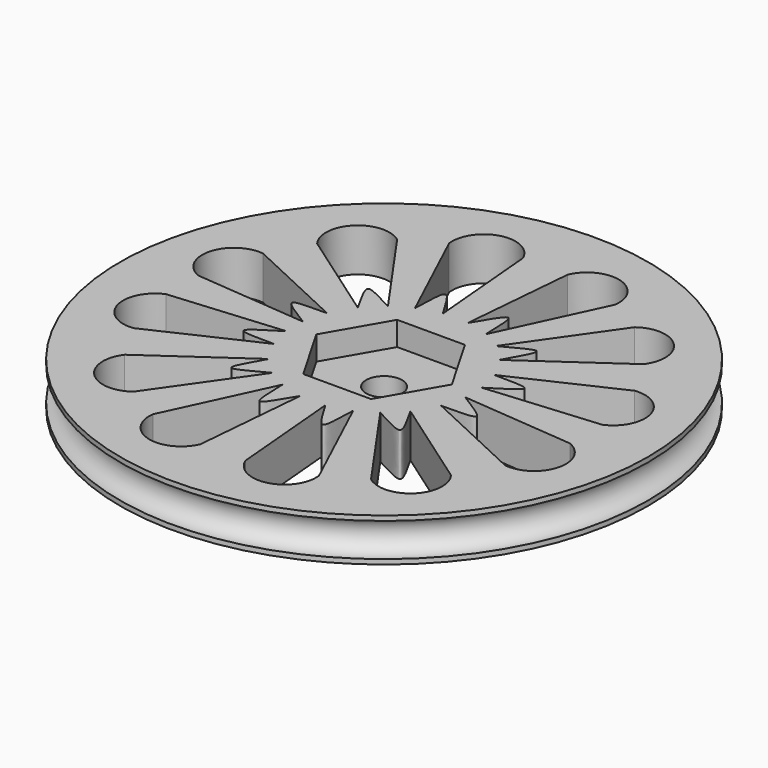
from build123d import *

# Parameters (mm, degrees)
F0_R     = 27.94
F1_DEPTH = 4.572
F5_DEPTH = 2.54
F7_D     = 3.81


with BuildPart() as f1:
    # F0 (on Top) → F1 (new body)
    with BuildSketch(Plane.XY):
        Circle(F0_R)
        with BuildLine():
            Line((-1.328203681, -9.4319404144), (-2.3688524781, -21.3266105935))
            ThreePointArc((-2.3688524781, -21.3266105935), (-6.3304787794, -23.2660997797), (-8.7974485702, -19.6095766626))
            Line((-8.7974485702, -19.6095766626), (-3.7385148069, -8.7606581967))
            add(Edge.make_bspline(
                [(-1.328203681, -9.4319404144), (-2.0478158848, -10.5329636855), (-3.8528256448, -14.1879980807), (-3.6315710261, -10.0960103597), (-3.7385148069, -8.7606581967)],
                knots=[0, 0, 0, 0, 0.4983014192, 1, 1, 1, 1], degree=3))
        make_face(mode=Mode.SUBTRACT)
        with BuildLine():
            Line((-8.8510553578, -3.519153883), (-19.672466301, -8.5652606779))
            ThreePointArc((-19.672466301, -8.5652606779), (-23.3201173108, -6.0960825431), (-21.3867590222, -2.1382644222))
            Line((-21.3867590222, -2.1382644222), (-9.4618531454, -1.0949703444))
            add(Edge.make_bspline(
                [(-8.8510553578, -3.519153883), (-10.1617797943, -3.4492064921), (-14.2173854227, -3.742830408), (-10.5667325444, -1.8566932992), (-9.4618531454, -1.0949703444)],
                knots=[0, 0, 0, 0, 0.4973740766, 1, 1, 1, 1], degree=3))
        make_face(mode=Mode.SUBTRACT)
        with BuildLine():
            Line((-5.7001591419, -7.6311080949), (-12.5661312554, -17.436732483))
            ThreePointArc((-12.5661312554, -17.436732483), (-16.967117535, -17.1327698627), (-17.2716171255, -12.7318207029))
            Line((-17.2716171255, -12.7318207029), (-7.4908549794, -5.8832573187))
            add(Edge.make_bspline(
                [(-5.7001591419, -7.6311080949), (-6.9114224761, -8.2060778351), (-10.3561428133, -10.4354310204), (-8.0845569587, -7.0557133669), (-7.4908549794, -5.8832573187)],
                knots=[0, 0, 0, 0, 0.5021110658, 1, 1, 1, 1], degree=3))
        make_face(mode=Mode.SUBTRACT)
        Polygon((3.4925, 6.0491874454), (6.985, 0), (3.4925, -6.0491874454), (-3.4925, -6.0491874454), (-6.985, 0), (-3.4925, 6.0491874454), align=None, mode=Mode.SUBTRACT)
        with BuildLine():
            ThreePointArc((8.7974485702, -19.6095766626), (6.3304787794, -23.2660997797), (2.3688524781, -21.3266105935))
            Line((2.3688524781, -21.3266105935), (1.328203681, -9.4319404144))
            add(Edge.make_bspline(
                [(1.328203681, -9.4319404144), (2.0478158848, -10.5329636855), (3.8528256448, -14.1879980807), (3.6315710261, -10.0960103597), (3.7385148069, -8.7606581967)],
                knots=[0, 0, 0, 0, 0.4983014192, 1, 1, 1, 1], degree=3))
            Line((3.7385148069, -8.7606581967), (8.7974485702, -19.6095766626))
        make_face(mode=Mode.SUBTRACT)
        with BuildLine():
            ThreePointArc((17.2716171255, -12.7318207029), (16.967117535, -17.1327698627), (12.5661312554, -17.436732483))
            Line((12.5661312554, -17.436732483), (5.7001591419, -7.6311080949))
            add(Edge.make_bspline(
                [(5.7001591419, -7.6311080949), (6.9114224761, -8.2060778351), (10.3561428133, -10.4354310204), (8.0845569587, -7.0557133669), (7.4908549794, -5.8832573187)],
                knots=[0, 0, 0, 0, 0.5021110658, 1, 1, 1, 1], degree=3))
            Line((7.4908549794, -5.8832573187), (17.2716171255, -12.7318207029))
        make_face(mode=Mode.SUBTRACT)
        with BuildLine():
            ThreePointArc((21.3867590222, -2.1382644222), (23.3201173108, -6.0960825431), (19.672466301, -8.5652606779))
            Line((19.672466301, -8.5652606779), (8.8510553578, -3.519153883))
            add(Edge.make_bspline(
                [(8.8510553578, -3.519153883), (10.1617797943, -3.4492064921), (14.2173854227, -3.742830408), (10.5667325444, -1.8566932992), (9.4618531454, -1.0949703444)],
                knots=[0, 0, 0, 0, 0.4973740766, 1, 1, 1, 1], degree=3))
            Line((9.4618531454, -1.0949703444), (21.3867590222, -2.1382644222))
        make_face(mode=Mode.SUBTRACT)
        with BuildLine():
            ThreePointArc((-21.3867590222, 2.1382644222), (-23.3201173108, 6.0960825431), (-19.672466301, 8.5652606779))
            Line((-19.672466301, 8.5652606779), (-8.8510553578, 3.519153883))
            add(Edge.make_bspline(
                [(-8.8510553578, 3.519153883), (-10.1617797943, 3.4492064921), (-14.2173854227, 3.742830408), (-10.5667325444, 1.8566932992), (-9.4618531454, 1.0949703444)],
                knots=[0, 0, 0, 0, 0.4973740766, 1, 1, 1, 1], degree=3))
            Line((-9.4618531454, 1.0949703444), (-21.3867590222, 2.1382644222))
        make_face(mode=Mode.SUBTRACT)
        with BuildLine():
            ThreePointArc((-17.2716171255, 12.7318207029), (-16.967117535, 17.1327698627), (-12.5661312554, 17.436732483))
            Line((-12.5661312554, 17.436732483), (-5.7001591419, 7.6311080949))
            add(Edge.make_bspline(
                [(-5.7001591419, 7.6311080949), (-6.9114224761, 8.2060778351), (-10.3561428133, 10.4354310204), (-8.0845569587, 7.0557133669), (-7.4908549794, 5.8832573187)],
                knots=[0, 0, 0, 0, 0.5021110658, 1, 1, 1, 1], degree=3))
            Line((-7.4908549794, 5.8832573187), (-17.2716171255, 12.7318207029))
        make_face(mode=Mode.SUBTRACT)
        with BuildLine():
            ThreePointArc((-8.7974485702, 19.6095766626), (-6.3304787794, 23.2660997797), (-2.3688524781, 21.3266105935))
            Line((-2.3688524781, 21.3266105935), (-1.328203681, 9.4319404144))
            add(Edge.make_bspline(
                [(-1.328203681, 9.4319404144), (-2.0478158848, 10.5329636855), (-3.8528256448, 14.1879980807), (-3.6315710261, 10.0960103597), (-3.7385148069, 8.7606581967)],
                knots=[0, 0, 0, 0, 0.4983014192, 1, 1, 1, 1], degree=3))
            Line((-3.7385148069, 8.7606581967), (-8.7974485702, 19.6095766626))
        make_face(mode=Mode.SUBTRACT)
        with BuildLine():
            Line((5.7001591419, 7.6311080949), (12.5661312554, 17.436732483))
            ThreePointArc((12.5661312554, 17.436732483), (16.967117535, 17.1327698627), (17.2716171255, 12.7318207029))
            Line((17.2716171255, 12.7318207029), (7.4908549794, 5.8832573187))
            add(Edge.make_bspline(
                [(5.7001591419, 7.6311080949), (6.9114224761, 8.2060778351), (10.3561428133, 10.4354310204), (8.0845569587, 7.0557133669), (7.4908549794, 5.8832573187)],
                knots=[0, 0, 0, 0, 0.5021110658, 1, 1, 1, 1], degree=3))
        make_face(mode=Mode.SUBTRACT)
        with BuildLine():
            Line((8.8510553578, 3.519153883), (19.672466301, 8.5652606779))
            ThreePointArc((19.672466301, 8.5652606779), (23.3201173108, 6.0960825431), (21.3867590222, 2.1382644222))
            Line((21.3867590222, 2.1382644222), (9.4618531454, 1.0949703444))
            add(Edge.make_bspline(
                [(8.8510553578, 3.519153883), (10.1617797943, 3.4492064921), (14.2173854227, 3.742830408), (10.5667325444, 1.8566932992), (9.4618531454, 1.0949703444)],
                knots=[0, 0, 0, 0, 0.4973740766, 1, 1, 1, 1], degree=3))
        make_face(mode=Mode.SUBTRACT)
        with BuildLine():
            Line((1.328203681, 9.4319404144), (2.3688524781, 21.3266105935))
            ThreePointArc((2.3688524781, 21.3266105935), (6.3304787794, 23.2660997797), (8.7974485702, 19.6095766626))
            Line((8.7974485702, 19.6095766626), (3.7385148069, 8.7606581967))
            add(Edge.make_bspline(
                [(1.328203681, 9.4319404144), (2.0478158848, 10.5329636855), (3.8528256448, 14.1879980807), (3.6315710261, 10.0960103597), (3.7385148069, 8.7606581967)],
                knots=[0, 0, 0, 0, 0.4983014192, 1, 1, 1, 1], degree=3))
        make_face(mode=Mode.SUBTRACT)
        Circle(F0_R)
        with BuildLine():
            Line((-1.328203681, -9.4319404144), (-2.3688524781, -21.3266105935))
            ThreePointArc((-2.3688524781, -21.3266105935), (-6.3304787794, -23.2660997797), (-8.7974485702, -19.6095766626))
            Line((-8.7974485702, -19.6095766626), (-3.7385148069, -8.7606581967))
            add(Edge.make_bspline(
                [(-1.328203681, -9.4319404144), (-2.0478158848, -10.5329636855), (-3.8528256448, -14.1879980807), (-3.6315710261, -10.0960103597), (-3.7385148069, -8.7606581967)],
                knots=[0, 0, 0, 0, 0.4983014192, 1, 1, 1, 1], degree=3))
        make_face(mode=Mode.SUBTRACT)
        with BuildLine():
            Line((-8.8510553578, -3.519153883), (-19.672466301, -8.5652606779))
            ThreePointArc((-19.672466301, -8.5652606779), (-23.3201173108, -6.0960825431), (-21.3867590222, -2.1382644222))
            Line((-21.3867590222, -2.1382644222), (-9.4618531454, -1.0949703444))
            add(Edge.make_bspline(
                [(-8.8510553578, -3.519153883), (-10.1617797943, -3.4492064921), (-14.2173854227, -3.742830408), (-10.5667325444, -1.8566932992), (-9.4618531454, -1.0949703444)],
                knots=[0, 0, 0, 0, 0.4973740766, 1, 1, 1, 1], degree=3))
        make_face(mode=Mode.SUBTRACT)
        with BuildLine():
            Line((-5.7001591419, -7.6311080949), (-12.5661312554, -17.436732483))
            ThreePointArc((-12.5661312554, -17.436732483), (-16.967117535, -17.1327698627), (-17.2716171255, -12.7318207029))
            Line((-17.2716171255, -12.7318207029), (-7.4908549794, -5.8832573187))
            add(Edge.make_bspline(
                [(-5.7001591419, -7.6311080949), (-6.9114224761, -8.2060778351), (-10.3561428133, -10.4354310204), (-8.0845569587, -7.0557133669), (-7.4908549794, -5.8832573187)],
                knots=[0, 0, 0, 0, 0.5021110658, 1, 1, 1, 1], degree=3))
        make_face(mode=Mode.SUBTRACT)
        Polygon((3.4925, 6.0491874454), (6.985, 0), (3.4925, -6.0491874454), (-3.4925, -6.0491874454), (-6.985, 0), (-3.4925, 6.0491874454), align=None, mode=Mode.SUBTRACT)
        with BuildLine():
            ThreePointArc((8.7974485702, -19.6095766626), (6.3304787794, -23.2660997797), (2.3688524781, -21.3266105935))
            Line((2.3688524781, -21.3266105935), (1.328203681, -9.4319404144))
            add(Edge.make_bspline(
                [(1.328203681, -9.4319404144), (2.0478158848, -10.5329636855), (3.8528256448, -14.1879980807), (3.6315710261, -10.0960103597), (3.7385148069, -8.7606581967)],
                knots=[0, 0, 0, 0, 0.4983014192, 1, 1, 1, 1], degree=3))
            Line((3.7385148069, -8.7606581967), (8.7974485702, -19.6095766626))
        make_face(mode=Mode.SUBTRACT)
        with BuildLine():
            ThreePointArc((17.2716171255, -12.7318207029), (16.967117535, -17.1327698627), (12.5661312554, -17.436732483))
            Line((12.5661312554, -17.436732483), (5.7001591419, -7.6311080949))
            add(Edge.make_bspline(
                [(5.7001591419, -7.6311080949), (6.9114224761, -8.2060778351), (10.3561428133, -10.4354310204), (8.0845569587, -7.0557133669), (7.4908549794, -5.8832573187)],
                knots=[0, 0, 0, 0, 0.5021110658, 1, 1, 1, 1], degree=3))
            Line((7.4908549794, -5.8832573187), (17.2716171255, -12.7318207029))
        make_face(mode=Mode.SUBTRACT)
        with BuildLine():
            ThreePointArc((21.3867590222, -2.1382644222), (23.3201173108, -6.0960825431), (19.672466301, -8.5652606779))
            Line((19.672466301, -8.5652606779), (8.8510553578, -3.519153883))
            add(Edge.make_bspline(
                [(8.8510553578, -3.519153883), (10.1617797943, -3.4492064921), (14.2173854227, -3.742830408), (10.5667325444, -1.8566932992), (9.4618531454, -1.0949703444)],
                knots=[0, 0, 0, 0, 0.4973740766, 1, 1, 1, 1], degree=3))
            Line((9.4618531454, -1.0949703444), (21.3867590222, -2.1382644222))
        make_face(mode=Mode.SUBTRACT)
        with BuildLine():
            ThreePointArc((-21.3867590222, 2.1382644222), (-23.3201173108, 6.0960825431), (-19.672466301, 8.5652606779))
            Line((-19.672466301, 8.5652606779), (-8.8510553578, 3.519153883))
            add(Edge.make_bspline(
                [(-8.8510553578, 3.519153883), (-10.1617797943, 3.4492064921), (-14.2173854227, 3.742830408), (-10.5667325444, 1.8566932992), (-9.4618531454, 1.0949703444)],
                knots=[0, 0, 0, 0, 0.4973740766, 1, 1, 1, 1], degree=3))
            Line((-9.4618531454, 1.0949703444), (-21.3867590222, 2.1382644222))
        make_face(mode=Mode.SUBTRACT)
        with BuildLine():
            ThreePointArc((-17.2716171255, 12.7318207029), (-16.967117535, 17.1327698627), (-12.5661312554, 17.436732483))
            Line((-12.5661312554, 17.436732483), (-5.7001591419, 7.6311080949))
            add(Edge.make_bspline(
                [(-5.7001591419, 7.6311080949), (-6.9114224761, 8.2060778351), (-10.3561428133, 10.4354310204), (-8.0845569587, 7.0557133669), (-7.4908549794, 5.8832573187)],
                knots=[0, 0, 0, 0, 0.5021110658, 1, 1, 1, 1], degree=3))
            Line((-7.4908549794, 5.8832573187), (-17.2716171255, 12.7318207029))
        make_face(mode=Mode.SUBTRACT)
        with BuildLine():
            ThreePointArc((-8.7974485702, 19.6095766626), (-6.3304787794, 23.2660997797), (-2.3688524781, 21.3266105935))
            Line((-2.3688524781, 21.3266105935), (-1.328203681, 9.4319404144))
            add(Edge.make_bspline(
                [(-1.328203681, 9.4319404144), (-2.0478158848, 10.5329636855), (-3.8528256448, 14.1879980807), (-3.6315710261, 10.0960103597), (-3.7385148069, 8.7606581967)],
                knots=[0, 0, 0, 0, 0.4983014192, 1, 1, 1, 1], degree=3))
            Line((-3.7385148069, 8.7606581967), (-8.7974485702, 19.6095766626))
        make_face(mode=Mode.SUBTRACT)
        with BuildLine():
            Line((5.7001591419, 7.6311080949), (12.5661312554, 17.436732483))
            ThreePointArc((12.5661312554, 17.436732483), (16.967117535, 17.1327698627), (17.2716171255, 12.7318207029))
            Line((17.2716171255, 12.7318207029), (7.4908549794, 5.8832573187))
            add(Edge.make_bspline(
                [(5.7001591419, 7.6311080949), (6.9114224761, 8.2060778351), (10.3561428133, 10.4354310204), (8.0845569587, 7.0557133669), (7.4908549794, 5.8832573187)],
                knots=[0, 0, 0, 0, 0.5021110658, 1, 1, 1, 1], degree=3))
        make_face(mode=Mode.SUBTRACT)
        with BuildLine():
            Line((8.8510553578, 3.519153883), (19.672466301, 8.5652606779))
            ThreePointArc((19.672466301, 8.5652606779), (23.3201173108, 6.0960825431), (21.3867590222, 2.1382644222))
            Line((21.3867590222, 2.1382644222), (9.4618531454, 1.0949703444))
            add(Edge.make_bspline(
                [(8.8510553578, 3.519153883), (10.1617797943, 3.4492064921), (14.2173854227, 3.742830408), (10.5667325444, 1.8566932992), (9.4618531454, 1.0949703444)],
                knots=[0, 0, 0, 0, 0.4973740766, 1, 1, 1, 1], degree=3))
        make_face(mode=Mode.SUBTRACT)
        with BuildLine():
            Line((1.328203681, 9.4319404144), (2.3688524781, 21.3266105935))
            ThreePointArc((2.3688524781, 21.3266105935), (6.3304787794, 23.2660997797), (8.7974485702, 19.6095766626))
            Line((8.7974485702, 19.6095766626), (3.7385148069, 8.7606581967))
            add(Edge.make_bspline(
                [(1.328203681, 9.4319404144), (2.0478158848, 10.5329636855), (3.8528256448, 14.1879980807), (3.6315710261, 10.0960103597), (3.7385148069, 8.7606581967)],
                knots=[0, 0, 0, 0, 0.4983014192, 1, 1, 1, 1], degree=3))
        make_face(mode=Mode.SUBTRACT)
        Circle(F0_R)
        with BuildLine():
            Line((-1.328203681, -9.4319404144), (-2.3688524781, -21.3266105935))
            ThreePointArc((-2.3688524781, -21.3266105935), (-6.3304787794, -23.2660997797), (-8.7974485702, -19.6095766626))
            Line((-8.7974485702, -19.6095766626), (-3.7385148069, -8.7606581967))
            add(Edge.make_bspline(
                [(-1.328203681, -9.4319404144), (-2.0478158848, -10.5329636855), (-3.8528256448, -14.1879980807), (-3.6315710261, -10.0960103597), (-3.7385148069, -8.7606581967)],
                knots=[0, 0, 0, 0, 0.4983014192, 1, 1, 1, 1], degree=3))
        make_face(mode=Mode.SUBTRACT)
        with BuildLine():
            Line((-8.8510553578, -3.519153883), (-19.672466301, -8.5652606779))
            ThreePointArc((-19.672466301, -8.5652606779), (-23.3201173108, -6.0960825431), (-21.3867590222, -2.1382644222))
            Line((-21.3867590222, -2.1382644222), (-9.4618531454, -1.0949703444))
            add(Edge.make_bspline(
                [(-8.8510553578, -3.519153883), (-10.1617797943, -3.4492064921), (-14.2173854227, -3.742830408), (-10.5667325444, -1.8566932992), (-9.4618531454, -1.0949703444)],
                knots=[0, 0, 0, 0, 0.4973740766, 1, 1, 1, 1], degree=3))
        make_face(mode=Mode.SUBTRACT)
        with BuildLine():
            Line((-5.7001591419, -7.6311080949), (-12.5661312554, -17.436732483))
            ThreePointArc((-12.5661312554, -17.436732483), (-16.967117535, -17.1327698627), (-17.2716171255, -12.7318207029))
            Line((-17.2716171255, -12.7318207029), (-7.4908549794, -5.8832573187))
            add(Edge.make_bspline(
                [(-5.7001591419, -7.6311080949), (-6.9114224761, -8.2060778351), (-10.3561428133, -10.4354310204), (-8.0845569587, -7.0557133669), (-7.4908549794, -5.8832573187)],
                knots=[0, 0, 0, 0, 0.5021110658, 1, 1, 1, 1], degree=3))
        make_face(mode=Mode.SUBTRACT)
        Polygon((3.4925, 6.0491874454), (6.985, 0), (3.4925, -6.0491874454), (-3.4925, -6.0491874454), (-6.985, 0), (-3.4925, 6.0491874454), align=None, mode=Mode.SUBTRACT)
        with BuildLine():
            ThreePointArc((8.7974485702, -19.6095766626), (6.3304787794, -23.2660997797), (2.3688524781, -21.3266105935))
            Line((2.3688524781, -21.3266105935), (1.328203681, -9.4319404144))
            add(Edge.make_bspline(
                [(1.328203681, -9.4319404144), (2.0478158848, -10.5329636855), (3.8528256448, -14.1879980807), (3.6315710261, -10.0960103597), (3.7385148069, -8.7606581967)],
                knots=[0, 0, 0, 0, 0.4983014192, 1, 1, 1, 1], degree=3))
            Line((3.7385148069, -8.7606581967), (8.7974485702, -19.6095766626))
        make_face(mode=Mode.SUBTRACT)
        with BuildLine():
            ThreePointArc((17.2716171255, -12.7318207029), (16.967117535, -17.1327698627), (12.5661312554, -17.436732483))
            Line((12.5661312554, -17.436732483), (5.7001591419, -7.6311080949))
            add(Edge.make_bspline(
                [(5.7001591419, -7.6311080949), (6.9114224761, -8.2060778351), (10.3561428133, -10.4354310204), (8.0845569587, -7.0557133669), (7.4908549794, -5.8832573187)],
                knots=[0, 0, 0, 0, 0.5021110658, 1, 1, 1, 1], degree=3))
            Line((7.4908549794, -5.8832573187), (17.2716171255, -12.7318207029))
        make_face(mode=Mode.SUBTRACT)
        with BuildLine():
            ThreePointArc((21.3867590222, -2.1382644222), (23.3201173108, -6.0960825431), (19.672466301, -8.5652606779))
            Line((19.672466301, -8.5652606779), (8.8510553578, -3.519153883))
            add(Edge.make_bspline(
                [(8.8510553578, -3.519153883), (10.1617797943, -3.4492064921), (14.2173854227, -3.742830408), (10.5667325444, -1.8566932992), (9.4618531454, -1.0949703444)],
                knots=[0, 0, 0, 0, 0.4973740766, 1, 1, 1, 1], degree=3))
            Line((9.4618531454, -1.0949703444), (21.3867590222, -2.1382644222))
        make_face(mode=Mode.SUBTRACT)
        with BuildLine():
            ThreePointArc((-21.3867590222, 2.1382644222), (-23.3201173108, 6.0960825431), (-19.672466301, 8.5652606779))
            Line((-19.672466301, 8.5652606779), (-8.8510553578, 3.519153883))
            add(Edge.make_bspline(
                [(-8.8510553578, 3.519153883), (-10.1617797943, 3.4492064921), (-14.2173854227, 3.742830408), (-10.5667325444, 1.8566932992), (-9.4618531454, 1.0949703444)],
                knots=[0, 0, 0, 0, 0.4973740766, 1, 1, 1, 1], degree=3))
            Line((-9.4618531454, 1.0949703444), (-21.3867590222, 2.1382644222))
        make_face(mode=Mode.SUBTRACT)
        with BuildLine():
            ThreePointArc((-17.2716171255, 12.7318207029), (-16.967117535, 17.1327698627), (-12.5661312554, 17.436732483))
            Line((-12.5661312554, 17.436732483), (-5.7001591419, 7.6311080949))
            add(Edge.make_bspline(
                [(-5.7001591419, 7.6311080949), (-6.9114224761, 8.2060778351), (-10.3561428133, 10.4354310204), (-8.0845569587, 7.0557133669), (-7.4908549794, 5.8832573187)],
                knots=[0, 0, 0, 0, 0.5021110658, 1, 1, 1, 1], degree=3))
            Line((-7.4908549794, 5.8832573187), (-17.2716171255, 12.7318207029))
        make_face(mode=Mode.SUBTRACT)
        with BuildLine():
            ThreePointArc((-8.7974485702, 19.6095766626), (-6.3304787794, 23.2660997797), (-2.3688524781, 21.3266105935))
            Line((-2.3688524781, 21.3266105935), (-1.328203681, 9.4319404144))
            add(Edge.make_bspline(
                [(-1.328203681, 9.4319404144), (-2.0478158848, 10.5329636855), (-3.8528256448, 14.1879980807), (-3.6315710261, 10.0960103597), (-3.7385148069, 8.7606581967)],
                knots=[0, 0, 0, 0, 0.4983014192, 1, 1, 1, 1], degree=3))
            Line((-3.7385148069, 8.7606581967), (-8.7974485702, 19.6095766626))
        make_face(mode=Mode.SUBTRACT)
        with BuildLine():
            Line((5.7001591419, 7.6311080949), (12.5661312554, 17.436732483))
            ThreePointArc((12.5661312554, 17.436732483), (16.967117535, 17.1327698627), (17.2716171255, 12.7318207029))
            Line((17.2716171255, 12.7318207029), (7.4908549794, 5.8832573187))
            add(Edge.make_bspline(
                [(5.7001591419, 7.6311080949), (6.9114224761, 8.2060778351), (10.3561428133, 10.4354310204), (8.0845569587, 7.0557133669), (7.4908549794, 5.8832573187)],
                knots=[0, 0, 0, 0, 0.5021110658, 1, 1, 1, 1], degree=3))
        make_face(mode=Mode.SUBTRACT)
        with BuildLine():
            Line((8.8510553578, 3.519153883), (19.672466301, 8.5652606779))
            ThreePointArc((19.672466301, 8.5652606779), (23.3201173108, 6.0960825431), (21.3867590222, 2.1382644222))
            Line((21.3867590222, 2.1382644222), (9.4618531454, 1.0949703444))
            add(Edge.make_bspline(
                [(8.8510553578, 3.519153883), (10.1617797943, 3.4492064921), (14.2173854227, 3.742830408), (10.5667325444, 1.8566932992), (9.4618531454, 1.0949703444)],
                knots=[0, 0, 0, 0, 0.4973740766, 1, 1, 1, 1], degree=3))
        make_face(mode=Mode.SUBTRACT)
        with BuildLine():
            Line((1.328203681, 9.4319404144), (2.3688524781, 21.3266105935))
            ThreePointArc((2.3688524781, 21.3266105935), (6.3304787794, 23.2660997797), (8.7974485702, 19.6095766626))
            Line((8.7974485702, 19.6095766626), (3.7385148069, 8.7606581967))
            add(Edge.make_bspline(
                [(1.328203681, 9.4319404144), (2.0478158848, 10.5329636855), (3.8528256448, 14.1879980807), (3.6315710261, 10.0960103597), (3.7385148069, 8.7606581967)],
                knots=[0, 0, 0, 0, 0.4983014192, 1, 1, 1, 1], degree=3))
        make_face(mode=Mode.SUBTRACT)
        Circle(F0_R)
        with BuildLine():
            Line((-1.328203681, -9.4319404144), (-2.3688524781, -21.3266105935))
            ThreePointArc((-2.3688524781, -21.3266105935), (-6.3304787794, -23.2660997797), (-8.7974485702, -19.6095766626))
            Line((-8.7974485702, -19.6095766626), (-3.7385148069, -8.7606581967))
            add(Edge.make_bspline(
                [(-1.328203681, -9.4319404144), (-2.0478158848, -10.5329636855), (-3.8528256448, -14.1879980807), (-3.6315710261, -10.0960103597), (-3.7385148069, -8.7606581967)],
                knots=[0, 0, 0, 0, 0.4983014192, 1, 1, 1, 1], degree=3))
        make_face(mode=Mode.SUBTRACT)
        with BuildLine():
            Line((-8.8510553578, -3.519153883), (-19.672466301, -8.5652606779))
            ThreePointArc((-19.672466301, -8.5652606779), (-23.3201173108, -6.0960825431), (-21.3867590222, -2.1382644222))
            Line((-21.3867590222, -2.1382644222), (-9.4618531454, -1.0949703444))
            add(Edge.make_bspline(
                [(-8.8510553578, -3.519153883), (-10.1617797943, -3.4492064921), (-14.2173854227, -3.742830408), (-10.5667325444, -1.8566932992), (-9.4618531454, -1.0949703444)],
                knots=[0, 0, 0, 0, 0.4973740766, 1, 1, 1, 1], degree=3))
        make_face(mode=Mode.SUBTRACT)
        with BuildLine():
            Line((-5.7001591419, -7.6311080949), (-12.5661312554, -17.436732483))
            ThreePointArc((-12.5661312554, -17.436732483), (-16.967117535, -17.1327698627), (-17.2716171255, -12.7318207029))
            Line((-17.2716171255, -12.7318207029), (-7.4908549794, -5.8832573187))
            add(Edge.make_bspline(
                [(-5.7001591419, -7.6311080949), (-6.9114224761, -8.2060778351), (-10.3561428133, -10.4354310204), (-8.0845569587, -7.0557133669), (-7.4908549794, -5.8832573187)],
                knots=[0, 0, 0, 0, 0.5021110658, 1, 1, 1, 1], degree=3))
        make_face(mode=Mode.SUBTRACT)
        Polygon((3.4925, 6.0491874454), (6.985, 0), (3.4925, -6.0491874454), (-3.4925, -6.0491874454), (-6.985, 0), (-3.4925, 6.0491874454), align=None, mode=Mode.SUBTRACT)
        with BuildLine():
            ThreePointArc((8.7974485702, -19.6095766626), (6.3304787794, -23.2660997797), (2.3688524781, -21.3266105935))
            Line((2.3688524781, -21.3266105935), (1.328203681, -9.4319404144))
            add(Edge.make_bspline(
                [(1.328203681, -9.4319404144), (2.0478158848, -10.5329636855), (3.8528256448, -14.1879980807), (3.6315710261, -10.0960103597), (3.7385148069, -8.7606581967)],
                knots=[0, 0, 0, 0, 0.4983014192, 1, 1, 1, 1], degree=3))
            Line((3.7385148069, -8.7606581967), (8.7974485702, -19.6095766626))
        make_face(mode=Mode.SUBTRACT)
        with BuildLine():
            ThreePointArc((17.2716171255, -12.7318207029), (16.967117535, -17.1327698627), (12.5661312554, -17.436732483))
            Line((12.5661312554, -17.436732483), (5.7001591419, -7.6311080949))
            add(Edge.make_bspline(
                [(5.7001591419, -7.6311080949), (6.9114224761, -8.2060778351), (10.3561428133, -10.4354310204), (8.0845569587, -7.0557133669), (7.4908549794, -5.8832573187)],
                knots=[0, 0, 0, 0, 0.5021110658, 1, 1, 1, 1], degree=3))
            Line((7.4908549794, -5.8832573187), (17.2716171255, -12.7318207029))
        make_face(mode=Mode.SUBTRACT)
        with BuildLine():
            ThreePointArc((21.3867590222, -2.1382644222), (23.3201173108, -6.0960825431), (19.672466301, -8.5652606779))
            Line((19.672466301, -8.5652606779), (8.8510553578, -3.519153883))
            add(Edge.make_bspline(
                [(8.8510553578, -3.519153883), (10.1617797943, -3.4492064921), (14.2173854227, -3.742830408), (10.5667325444, -1.8566932992), (9.4618531454, -1.0949703444)],
                knots=[0, 0, 0, 0, 0.4973740766, 1, 1, 1, 1], degree=3))
            Line((9.4618531454, -1.0949703444), (21.3867590222, -2.1382644222))
        make_face(mode=Mode.SUBTRACT)
        with BuildLine():
            ThreePointArc((-21.3867590222, 2.1382644222), (-23.3201173108, 6.0960825431), (-19.672466301, 8.5652606779))
            Line((-19.672466301, 8.5652606779), (-8.8510553578, 3.519153883))
            add(Edge.make_bspline(
                [(-8.8510553578, 3.519153883), (-10.1617797943, 3.4492064921), (-14.2173854227, 3.742830408), (-10.5667325444, 1.8566932992), (-9.4618531454, 1.0949703444)],
                knots=[0, 0, 0, 0, 0.4973740766, 1, 1, 1, 1], degree=3))
            Line((-9.4618531454, 1.0949703444), (-21.3867590222, 2.1382644222))
        make_face(mode=Mode.SUBTRACT)
        with BuildLine():
            ThreePointArc((-17.2716171255, 12.7318207029), (-16.967117535, 17.1327698627), (-12.5661312554, 17.436732483))
            Line((-12.5661312554, 17.436732483), (-5.7001591419, 7.6311080949))
            add(Edge.make_bspline(
                [(-5.7001591419, 7.6311080949), (-6.9114224761, 8.2060778351), (-10.3561428133, 10.4354310204), (-8.0845569587, 7.0557133669), (-7.4908549794, 5.8832573187)],
                knots=[0, 0, 0, 0, 0.5021110658, 1, 1, 1, 1], degree=3))
            Line((-7.4908549794, 5.8832573187), (-17.2716171255, 12.7318207029))
        make_face(mode=Mode.SUBTRACT)
        with BuildLine():
            ThreePointArc((-8.7974485702, 19.6095766626), (-6.3304787794, 23.2660997797), (-2.3688524781, 21.3266105935))
            Line((-2.3688524781, 21.3266105935), (-1.328203681, 9.4319404144))
            add(Edge.make_bspline(
                [(-1.328203681, 9.4319404144), (-2.0478158848, 10.5329636855), (-3.8528256448, 14.1879980807), (-3.6315710261, 10.0960103597), (-3.7385148069, 8.7606581967)],
                knots=[0, 0, 0, 0, 0.4983014192, 1, 1, 1, 1], degree=3))
            Line((-3.7385148069, 8.7606581967), (-8.7974485702, 19.6095766626))
        make_face(mode=Mode.SUBTRACT)
        with BuildLine():
            Line((5.7001591419, 7.6311080949), (12.5661312554, 17.436732483))
            ThreePointArc((12.5661312554, 17.436732483), (16.967117535, 17.1327698627), (17.2716171255, 12.7318207029))
            Line((17.2716171255, 12.7318207029), (7.4908549794, 5.8832573187))
            add(Edge.make_bspline(
                [(5.7001591419, 7.6311080949), (6.9114224761, 8.2060778351), (10.3561428133, 10.4354310204), (8.0845569587, 7.0557133669), (7.4908549794, 5.8832573187)],
                knots=[0, 0, 0, 0, 0.5021110658, 1, 1, 1, 1], degree=3))
        make_face(mode=Mode.SUBTRACT)
        with BuildLine():
            Line((8.8510553578, 3.519153883), (19.672466301, 8.5652606779))
            ThreePointArc((19.672466301, 8.5652606779), (23.3201173108, 6.0960825431), (21.3867590222, 2.1382644222))
            Line((21.3867590222, 2.1382644222), (9.4618531454, 1.0949703444))
            add(Edge.make_bspline(
                [(8.8510553578, 3.519153883), (10.1617797943, 3.4492064921), (14.2173854227, 3.742830408), (10.5667325444, 1.8566932992), (9.4618531454, 1.0949703444)],
                knots=[0, 0, 0, 0, 0.4973740766, 1, 1, 1, 1], degree=3))
        make_face(mode=Mode.SUBTRACT)
        with BuildLine():
            Line((1.328203681, 9.4319404144), (2.3688524781, 21.3266105935))
            ThreePointArc((2.3688524781, 21.3266105935), (6.3304787794, 23.2660997797), (8.7974485702, 19.6095766626))
            Line((8.7974485702, 19.6095766626), (3.7385148069, 8.7606581967))
            add(Edge.make_bspline(
                [(1.328203681, 9.4319404144), (2.0478158848, 10.5329636855), (3.8528256448, 14.1879980807), (3.6315710261, 10.0960103597), (3.7385148069, 8.7606581967)],
                knots=[0, 0, 0, 0, 0.4983014192, 1, 1, 1, 1], degree=3))
        make_face(mode=Mode.SUBTRACT)
        Circle(F0_R)
        with BuildLine():
            Line((-1.328203681, -9.4319404144), (-2.3688524781, -21.3266105935))
            ThreePointArc((-2.3688524781, -21.3266105935), (-6.3304787794, -23.2660997797), (-8.7974485702, -19.6095766626))
            Line((-8.7974485702, -19.6095766626), (-3.7385148069, -8.7606581967))
            add(Edge.make_bspline(
                [(-1.328203681, -9.4319404144), (-2.0478158848, -10.5329636855), (-3.8528256448, -14.1879980807), (-3.6315710261, -10.0960103597), (-3.7385148069, -8.7606581967)],
                knots=[0, 0, 0, 0, 0.4983014192, 1, 1, 1, 1], degree=3))
        make_face(mode=Mode.SUBTRACT)
        with BuildLine():
            Line((-8.8510553578, -3.519153883), (-19.672466301, -8.5652606779))
            ThreePointArc((-19.672466301, -8.5652606779), (-23.3201173108, -6.0960825431), (-21.3867590222, -2.1382644222))
            Line((-21.3867590222, -2.1382644222), (-9.4618531454, -1.0949703444))
            add(Edge.make_bspline(
                [(-8.8510553578, -3.519153883), (-10.1617797943, -3.4492064921), (-14.2173854227, -3.742830408), (-10.5667325444, -1.8566932992), (-9.4618531454, -1.0949703444)],
                knots=[0, 0, 0, 0, 0.4973740766, 1, 1, 1, 1], degree=3))
        make_face(mode=Mode.SUBTRACT)
        with BuildLine():
            Line((-5.7001591419, -7.6311080949), (-12.5661312554, -17.436732483))
            ThreePointArc((-12.5661312554, -17.436732483), (-16.967117535, -17.1327698627), (-17.2716171255, -12.7318207029))
            Line((-17.2716171255, -12.7318207029), (-7.4908549794, -5.8832573187))
            add(Edge.make_bspline(
                [(-5.7001591419, -7.6311080949), (-6.9114224761, -8.2060778351), (-10.3561428133, -10.4354310204), (-8.0845569587, -7.0557133669), (-7.4908549794, -5.8832573187)],
                knots=[0, 0, 0, 0, 0.5021110658, 1, 1, 1, 1], degree=3))
        make_face(mode=Mode.SUBTRACT)
        Polygon((3.4925, 6.0491874454), (6.985, 0), (3.4925, -6.0491874454), (-3.4925, -6.0491874454), (-6.985, 0), (-3.4925, 6.0491874454), align=None, mode=Mode.SUBTRACT)
        with BuildLine():
            ThreePointArc((8.7974485702, -19.6095766626), (6.3304787794, -23.2660997797), (2.3688524781, -21.3266105935))
            Line((2.3688524781, -21.3266105935), (1.328203681, -9.4319404144))
            add(Edge.make_bspline(
                [(1.328203681, -9.4319404144), (2.0478158848, -10.5329636855), (3.8528256448, -14.1879980807), (3.6315710261, -10.0960103597), (3.7385148069, -8.7606581967)],
                knots=[0, 0, 0, 0, 0.4983014192, 1, 1, 1, 1], degree=3))
            Line((3.7385148069, -8.7606581967), (8.7974485702, -19.6095766626))
        make_face(mode=Mode.SUBTRACT)
        with BuildLine():
            ThreePointArc((17.2716171255, -12.7318207029), (16.967117535, -17.1327698627), (12.5661312554, -17.436732483))
            Line((12.5661312554, -17.436732483), (5.7001591419, -7.6311080949))
            add(Edge.make_bspline(
                [(5.7001591419, -7.6311080949), (6.9114224761, -8.2060778351), (10.3561428133, -10.4354310204), (8.0845569587, -7.0557133669), (7.4908549794, -5.8832573187)],
                knots=[0, 0, 0, 0, 0.5021110658, 1, 1, 1, 1], degree=3))
            Line((7.4908549794, -5.8832573187), (17.2716171255, -12.7318207029))
        make_face(mode=Mode.SUBTRACT)
        with BuildLine():
            ThreePointArc((21.3867590222, -2.1382644222), (23.3201173108, -6.0960825431), (19.672466301, -8.5652606779))
            Line((19.672466301, -8.5652606779), (8.8510553578, -3.519153883))
            add(Edge.make_bspline(
                [(8.8510553578, -3.519153883), (10.1617797943, -3.4492064921), (14.2173854227, -3.742830408), (10.5667325444, -1.8566932992), (9.4618531454, -1.0949703444)],
                knots=[0, 0, 0, 0, 0.4973740766, 1, 1, 1, 1], degree=3))
            Line((9.4618531454, -1.0949703444), (21.3867590222, -2.1382644222))
        make_face(mode=Mode.SUBTRACT)
        with BuildLine():
            ThreePointArc((-21.3867590222, 2.1382644222), (-23.3201173108, 6.0960825431), (-19.672466301, 8.5652606779))
            Line((-19.672466301, 8.5652606779), (-8.8510553578, 3.519153883))
            add(Edge.make_bspline(
                [(-8.8510553578, 3.519153883), (-10.1617797943, 3.4492064921), (-14.2173854227, 3.742830408), (-10.5667325444, 1.8566932992), (-9.4618531454, 1.0949703444)],
                knots=[0, 0, 0, 0, 0.4973740766, 1, 1, 1, 1], degree=3))
            Line((-9.4618531454, 1.0949703444), (-21.3867590222, 2.1382644222))
        make_face(mode=Mode.SUBTRACT)
        with BuildLine():
            ThreePointArc((-17.2716171255, 12.7318207029), (-16.967117535, 17.1327698627), (-12.5661312554, 17.436732483))
            Line((-12.5661312554, 17.436732483), (-5.7001591419, 7.6311080949))
            add(Edge.make_bspline(
                [(-5.7001591419, 7.6311080949), (-6.9114224761, 8.2060778351), (-10.3561428133, 10.4354310204), (-8.0845569587, 7.0557133669), (-7.4908549794, 5.8832573187)],
                knots=[0, 0, 0, 0, 0.5021110658, 1, 1, 1, 1], degree=3))
            Line((-7.4908549794, 5.8832573187), (-17.2716171255, 12.7318207029))
        make_face(mode=Mode.SUBTRACT)
        with BuildLine():
            ThreePointArc((-8.7974485702, 19.6095766626), (-6.3304787794, 23.2660997797), (-2.3688524781, 21.3266105935))
            Line((-2.3688524781, 21.3266105935), (-1.328203681, 9.4319404144))
            add(Edge.make_bspline(
                [(-1.328203681, 9.4319404144), (-2.0478158848, 10.5329636855), (-3.8528256448, 14.1879980807), (-3.6315710261, 10.0960103597), (-3.7385148069, 8.7606581967)],
                knots=[0, 0, 0, 0, 0.4983014192, 1, 1, 1, 1], degree=3))
            Line((-3.7385148069, 8.7606581967), (-8.7974485702, 19.6095766626))
        make_face(mode=Mode.SUBTRACT)
        with BuildLine():
            Line((5.7001591419, 7.6311080949), (12.5661312554, 17.436732483))
            ThreePointArc((12.5661312554, 17.436732483), (16.967117535, 17.1327698627), (17.2716171255, 12.7318207029))
            Line((17.2716171255, 12.7318207029), (7.4908549794, 5.8832573187))
            add(Edge.make_bspline(
                [(5.7001591419, 7.6311080949), (6.9114224761, 8.2060778351), (10.3561428133, 10.4354310204), (8.0845569587, 7.0557133669), (7.4908549794, 5.8832573187)],
                knots=[0, 0, 0, 0, 0.5021110658, 1, 1, 1, 1], degree=3))
        make_face(mode=Mode.SUBTRACT)
        with BuildLine():
            Line((8.8510553578, 3.519153883), (19.672466301, 8.5652606779))
            ThreePointArc((19.672466301, 8.5652606779), (23.3201173108, 6.0960825431), (21.3867590222, 2.1382644222))
            Line((21.3867590222, 2.1382644222), (9.4618531454, 1.0949703444))
            add(Edge.make_bspline(
                [(8.8510553578, 3.519153883), (10.1617797943, 3.4492064921), (14.2173854227, 3.742830408), (10.5667325444, 1.8566932992), (9.4618531454, 1.0949703444)],
                knots=[0, 0, 0, 0, 0.4973740766, 1, 1, 1, 1], degree=3))
        make_face(mode=Mode.SUBTRACT)
        with BuildLine():
            Line((1.328203681, 9.4319404144), (2.3688524781, 21.3266105935))
            ThreePointArc((2.3688524781, 21.3266105935), (6.3304787794, 23.2660997797), (8.7974485702, 19.6095766626))
            Line((8.7974485702, 19.6095766626), (3.7385148069, 8.7606581967))
            add(Edge.make_bspline(
                [(1.328203681, 9.4319404144), (2.0478158848, 10.5329636855), (3.8528256448, 14.1879980807), (3.6315710261, 10.0960103597), (3.7385148069, 8.7606581967)],
                knots=[0, 0, 0, 0, 0.4983014192, 1, 1, 1, 1], degree=3))
        make_face(mode=Mode.SUBTRACT)
        Circle(F0_R)
        with BuildLine():
            Line((-1.328203681, -9.4319404144), (-2.3688524781, -21.3266105935))
            ThreePointArc((-2.3688524781, -21.3266105935), (-6.3304787794, -23.2660997797), (-8.7974485702, -19.6095766626))
            Line((-8.7974485702, -19.6095766626), (-3.7385148069, -8.7606581967))
            add(Edge.make_bspline(
                [(-1.328203681, -9.4319404144), (-2.0478158848, -10.5329636855), (-3.8528256448, -14.1879980807), (-3.6315710261, -10.0960103597), (-3.7385148069, -8.7606581967)],
                knots=[0, 0, 0, 0, 0.4983014192, 1, 1, 1, 1], degree=3))
        make_face(mode=Mode.SUBTRACT)
        with BuildLine():
            Line((-8.8510553578, -3.519153883), (-19.672466301, -8.5652606779))
            ThreePointArc((-19.672466301, -8.5652606779), (-23.3201173108, -6.0960825431), (-21.3867590222, -2.1382644222))
            Line((-21.3867590222, -2.1382644222), (-9.4618531454, -1.0949703444))
            add(Edge.make_bspline(
                [(-8.8510553578, -3.519153883), (-10.1617797943, -3.4492064921), (-14.2173854227, -3.742830408), (-10.5667325444, -1.8566932992), (-9.4618531454, -1.0949703444)],
                knots=[0, 0, 0, 0, 0.4973740766, 1, 1, 1, 1], degree=3))
        make_face(mode=Mode.SUBTRACT)
        with BuildLine():
            Line((-5.7001591419, -7.6311080949), (-12.5661312554, -17.436732483))
            ThreePointArc((-12.5661312554, -17.436732483), (-16.967117535, -17.1327698627), (-17.2716171255, -12.7318207029))
            Line((-17.2716171255, -12.7318207029), (-7.4908549794, -5.8832573187))
            add(Edge.make_bspline(
                [(-5.7001591419, -7.6311080949), (-6.9114224761, -8.2060778351), (-10.3561428133, -10.4354310204), (-8.0845569587, -7.0557133669), (-7.4908549794, -5.8832573187)],
                knots=[0, 0, 0, 0, 0.5021110658, 1, 1, 1, 1], degree=3))
        make_face(mode=Mode.SUBTRACT)
        Polygon((3.4925, 6.0491874454), (6.985, 0), (3.4925, -6.0491874454), (-3.4925, -6.0491874454), (-6.985, 0), (-3.4925, 6.0491874454), align=None, mode=Mode.SUBTRACT)
        with BuildLine():
            ThreePointArc((8.7974485702, -19.6095766626), (6.3304787794, -23.2660997797), (2.3688524781, -21.3266105935))
            Line((2.3688524781, -21.3266105935), (1.328203681, -9.4319404144))
            add(Edge.make_bspline(
                [(1.328203681, -9.4319404144), (2.0478158848, -10.5329636855), (3.8528256448, -14.1879980807), (3.6315710261, -10.0960103597), (3.7385148069, -8.7606581967)],
                knots=[0, 0, 0, 0, 0.4983014192, 1, 1, 1, 1], degree=3))
            Line((3.7385148069, -8.7606581967), (8.7974485702, -19.6095766626))
        make_face(mode=Mode.SUBTRACT)
        with BuildLine():
            ThreePointArc((17.2716171255, -12.7318207029), (16.967117535, -17.1327698627), (12.5661312554, -17.436732483))
            Line((12.5661312554, -17.436732483), (5.7001591419, -7.6311080949))
            add(Edge.make_bspline(
                [(5.7001591419, -7.6311080949), (6.9114224761, -8.2060778351), (10.3561428133, -10.4354310204), (8.0845569587, -7.0557133669), (7.4908549794, -5.8832573187)],
                knots=[0, 0, 0, 0, 0.5021110658, 1, 1, 1, 1], degree=3))
            Line((7.4908549794, -5.8832573187), (17.2716171255, -12.7318207029))
        make_face(mode=Mode.SUBTRACT)
        with BuildLine():
            ThreePointArc((21.3867590222, -2.1382644222), (23.3201173108, -6.0960825431), (19.672466301, -8.5652606779))
            Line((19.672466301, -8.5652606779), (8.8510553578, -3.519153883))
            add(Edge.make_bspline(
                [(8.8510553578, -3.519153883), (10.1617797943, -3.4492064921), (14.2173854227, -3.742830408), (10.5667325444, -1.8566932992), (9.4618531454, -1.0949703444)],
                knots=[0, 0, 0, 0, 0.4973740766, 1, 1, 1, 1], degree=3))
            Line((9.4618531454, -1.0949703444), (21.3867590222, -2.1382644222))
        make_face(mode=Mode.SUBTRACT)
        with BuildLine():
            ThreePointArc((-21.3867590222, 2.1382644222), (-23.3201173108, 6.0960825431), (-19.672466301, 8.5652606779))
            Line((-19.672466301, 8.5652606779), (-8.8510553578, 3.519153883))
            add(Edge.make_bspline(
                [(-8.8510553578, 3.519153883), (-10.1617797943, 3.4492064921), (-14.2173854227, 3.742830408), (-10.5667325444, 1.8566932992), (-9.4618531454, 1.0949703444)],
                knots=[0, 0, 0, 0, 0.4973740766, 1, 1, 1, 1], degree=3))
            Line((-9.4618531454, 1.0949703444), (-21.3867590222, 2.1382644222))
        make_face(mode=Mode.SUBTRACT)
        with BuildLine():
            ThreePointArc((-17.2716171255, 12.7318207029), (-16.967117535, 17.1327698627), (-12.5661312554, 17.436732483))
            Line((-12.5661312554, 17.436732483), (-5.7001591419, 7.6311080949))
            add(Edge.make_bspline(
                [(-5.7001591419, 7.6311080949), (-6.9114224761, 8.2060778351), (-10.3561428133, 10.4354310204), (-8.0845569587, 7.0557133669), (-7.4908549794, 5.8832573187)],
                knots=[0, 0, 0, 0, 0.5021110658, 1, 1, 1, 1], degree=3))
            Line((-7.4908549794, 5.8832573187), (-17.2716171255, 12.7318207029))
        make_face(mode=Mode.SUBTRACT)
        with BuildLine():
            ThreePointArc((-8.7974485702, 19.6095766626), (-6.3304787794, 23.2660997797), (-2.3688524781, 21.3266105935))
            Line((-2.3688524781, 21.3266105935), (-1.328203681, 9.4319404144))
            add(Edge.make_bspline(
                [(-1.328203681, 9.4319404144), (-2.0478158848, 10.5329636855), (-3.8528256448, 14.1879980807), (-3.6315710261, 10.0960103597), (-3.7385148069, 8.7606581967)],
                knots=[0, 0, 0, 0, 0.4983014192, 1, 1, 1, 1], degree=3))
            Line((-3.7385148069, 8.7606581967), (-8.7974485702, 19.6095766626))
        make_face(mode=Mode.SUBTRACT)
        with BuildLine():
            Line((5.7001591419, 7.6311080949), (12.5661312554, 17.436732483))
            ThreePointArc((12.5661312554, 17.436732483), (16.967117535, 17.1327698627), (17.2716171255, 12.7318207029))
            Line((17.2716171255, 12.7318207029), (7.4908549794, 5.8832573187))
            add(Edge.make_bspline(
                [(5.7001591419, 7.6311080949), (6.9114224761, 8.2060778351), (10.3561428133, 10.4354310204), (8.0845569587, 7.0557133669), (7.4908549794, 5.8832573187)],
                knots=[0, 0, 0, 0, 0.5021110658, 1, 1, 1, 1], degree=3))
        make_face(mode=Mode.SUBTRACT)
        with BuildLine():
            Line((8.8510553578, 3.519153883), (19.672466301, 8.5652606779))
            ThreePointArc((19.672466301, 8.5652606779), (23.3201173108, 6.0960825431), (21.3867590222, 2.1382644222))
            Line((21.3867590222, 2.1382644222), (9.4618531454, 1.0949703444))
            add(Edge.make_bspline(
                [(8.8510553578, 3.519153883), (10.1617797943, 3.4492064921), (14.2173854227, 3.742830408), (10.5667325444, 1.8566932992), (9.4618531454, 1.0949703444)],
                knots=[0, 0, 0, 0, 0.4973740766, 1, 1, 1, 1], degree=3))
        make_face(mode=Mode.SUBTRACT)
        with BuildLine():
            Line((1.328203681, 9.4319404144), (2.3688524781, 21.3266105935))
            ThreePointArc((2.3688524781, 21.3266105935), (6.3304787794, 23.2660997797), (8.7974485702, 19.6095766626))
            Line((8.7974485702, 19.6095766626), (3.7385148069, 8.7606581967))
            add(Edge.make_bspline(
                [(1.328203681, 9.4319404144), (2.0478158848, 10.5329636855), (3.8528256448, 14.1879980807), (3.6315710261, 10.0960103597), (3.7385148069, 8.7606581967)],
                knots=[0, 0, 0, 0, 0.4983014192, 1, 1, 1, 1], degree=3))
        make_face(mode=Mode.SUBTRACT)
        Circle(F0_R)
        with BuildLine():
            Line((-1.328203681, -9.4319404144), (-2.3688524781, -21.3266105935))
            ThreePointArc((-2.3688524781, -21.3266105935), (-6.3304787794, -23.2660997797), (-8.7974485702, -19.6095766626))
            Line((-8.7974485702, -19.6095766626), (-3.7385148069, -8.7606581967))
            add(Edge.make_bspline(
                [(-1.328203681, -9.4319404144), (-2.0478158848, -10.5329636855), (-3.8528256448, -14.1879980807), (-3.6315710261, -10.0960103597), (-3.7385148069, -8.7606581967)],
                knots=[0, 0, 0, 0, 0.4983014192, 1, 1, 1, 1], degree=3))
        make_face(mode=Mode.SUBTRACT)
        with BuildLine():
            Line((-8.8510553578, -3.519153883), (-19.672466301, -8.5652606779))
            ThreePointArc((-19.672466301, -8.5652606779), (-23.3201173108, -6.0960825431), (-21.3867590222, -2.1382644222))
            Line((-21.3867590222, -2.1382644222), (-9.4618531454, -1.0949703444))
            add(Edge.make_bspline(
                [(-8.8510553578, -3.519153883), (-10.1617797943, -3.4492064921), (-14.2173854227, -3.742830408), (-10.5667325444, -1.8566932992), (-9.4618531454, -1.0949703444)],
                knots=[0, 0, 0, 0, 0.4973740766, 1, 1, 1, 1], degree=3))
        make_face(mode=Mode.SUBTRACT)
        with BuildLine():
            Line((-5.7001591419, -7.6311080949), (-12.5661312554, -17.436732483))
            ThreePointArc((-12.5661312554, -17.436732483), (-16.967117535, -17.1327698627), (-17.2716171255, -12.7318207029))
            Line((-17.2716171255, -12.7318207029), (-7.4908549794, -5.8832573187))
            add(Edge.make_bspline(
                [(-5.7001591419, -7.6311080949), (-6.9114224761, -8.2060778351), (-10.3561428133, -10.4354310204), (-8.0845569587, -7.0557133669), (-7.4908549794, -5.8832573187)],
                knots=[0, 0, 0, 0, 0.5021110658, 1, 1, 1, 1], degree=3))
        make_face(mode=Mode.SUBTRACT)
        Polygon((3.4925, 6.0491874454), (6.985, 0), (3.4925, -6.0491874454), (-3.4925, -6.0491874454), (-6.985, 0), (-3.4925, 6.0491874454), align=None, mode=Mode.SUBTRACT)
        with BuildLine():
            ThreePointArc((8.7974485702, -19.6095766626), (6.3304787794, -23.2660997797), (2.3688524781, -21.3266105935))
            Line((2.3688524781, -21.3266105935), (1.328203681, -9.4319404144))
            add(Edge.make_bspline(
                [(1.328203681, -9.4319404144), (2.0478158848, -10.5329636855), (3.8528256448, -14.1879980807), (3.6315710261, -10.0960103597), (3.7385148069, -8.7606581967)],
                knots=[0, 0, 0, 0, 0.4983014192, 1, 1, 1, 1], degree=3))
            Line((3.7385148069, -8.7606581967), (8.7974485702, -19.6095766626))
        make_face(mode=Mode.SUBTRACT)
        with BuildLine():
            ThreePointArc((17.2716171255, -12.7318207029), (16.967117535, -17.1327698627), (12.5661312554, -17.436732483))
            Line((12.5661312554, -17.436732483), (5.7001591419, -7.6311080949))
            add(Edge.make_bspline(
                [(5.7001591419, -7.6311080949), (6.9114224761, -8.2060778351), (10.3561428133, -10.4354310204), (8.0845569587, -7.0557133669), (7.4908549794, -5.8832573187)],
                knots=[0, 0, 0, 0, 0.5021110658, 1, 1, 1, 1], degree=3))
            Line((7.4908549794, -5.8832573187), (17.2716171255, -12.7318207029))
        make_face(mode=Mode.SUBTRACT)
        with BuildLine():
            ThreePointArc((21.3867590222, -2.1382644222), (23.3201173108, -6.0960825431), (19.672466301, -8.5652606779))
            Line((19.672466301, -8.5652606779), (8.8510553578, -3.519153883))
            add(Edge.make_bspline(
                [(8.8510553578, -3.519153883), (10.1617797943, -3.4492064921), (14.2173854227, -3.742830408), (10.5667325444, -1.8566932992), (9.4618531454, -1.0949703444)],
                knots=[0, 0, 0, 0, 0.4973740766, 1, 1, 1, 1], degree=3))
            Line((9.4618531454, -1.0949703444), (21.3867590222, -2.1382644222))
        make_face(mode=Mode.SUBTRACT)
        with BuildLine():
            ThreePointArc((-21.3867590222, 2.1382644222), (-23.3201173108, 6.0960825431), (-19.672466301, 8.5652606779))
            Line((-19.672466301, 8.5652606779), (-8.8510553578, 3.519153883))
            add(Edge.make_bspline(
                [(-8.8510553578, 3.519153883), (-10.1617797943, 3.4492064921), (-14.2173854227, 3.742830408), (-10.5667325444, 1.8566932992), (-9.4618531454, 1.0949703444)],
                knots=[0, 0, 0, 0, 0.4973740766, 1, 1, 1, 1], degree=3))
            Line((-9.4618531454, 1.0949703444), (-21.3867590222, 2.1382644222))
        make_face(mode=Mode.SUBTRACT)
        with BuildLine():
            ThreePointArc((-17.2716171255, 12.7318207029), (-16.967117535, 17.1327698627), (-12.5661312554, 17.436732483))
            Line((-12.5661312554, 17.436732483), (-5.7001591419, 7.6311080949))
            add(Edge.make_bspline(
                [(-5.7001591419, 7.6311080949), (-6.9114224761, 8.2060778351), (-10.3561428133, 10.4354310204), (-8.0845569587, 7.0557133669), (-7.4908549794, 5.8832573187)],
                knots=[0, 0, 0, 0, 0.5021110658, 1, 1, 1, 1], degree=3))
            Line((-7.4908549794, 5.8832573187), (-17.2716171255, 12.7318207029))
        make_face(mode=Mode.SUBTRACT)
        with BuildLine():
            ThreePointArc((-8.7974485702, 19.6095766626), (-6.3304787794, 23.2660997797), (-2.3688524781, 21.3266105935))
            Line((-2.3688524781, 21.3266105935), (-1.328203681, 9.4319404144))
            add(Edge.make_bspline(
                [(-1.328203681, 9.4319404144), (-2.0478158848, 10.5329636855), (-3.8528256448, 14.1879980807), (-3.6315710261, 10.0960103597), (-3.7385148069, 8.7606581967)],
                knots=[0, 0, 0, 0, 0.4983014192, 1, 1, 1, 1], degree=3))
            Line((-3.7385148069, 8.7606581967), (-8.7974485702, 19.6095766626))
        make_face(mode=Mode.SUBTRACT)
        with BuildLine():
            Line((5.7001591419, 7.6311080949), (12.5661312554, 17.436732483))
            ThreePointArc((12.5661312554, 17.436732483), (16.967117535, 17.1327698627), (17.2716171255, 12.7318207029))
            Line((17.2716171255, 12.7318207029), (7.4908549794, 5.8832573187))
            add(Edge.make_bspline(
                [(5.7001591419, 7.6311080949), (6.9114224761, 8.2060778351), (10.3561428133, 10.4354310204), (8.0845569587, 7.0557133669), (7.4908549794, 5.8832573187)],
                knots=[0, 0, 0, 0, 0.5021110658, 1, 1, 1, 1], degree=3))
        make_face(mode=Mode.SUBTRACT)
        with BuildLine():
            Line((8.8510553578, 3.519153883), (19.672466301, 8.5652606779))
            ThreePointArc((19.672466301, 8.5652606779), (23.3201173108, 6.0960825431), (21.3867590222, 2.1382644222))
            Line((21.3867590222, 2.1382644222), (9.4618531454, 1.0949703444))
            add(Edge.make_bspline(
                [(8.8510553578, 3.519153883), (10.1617797943, 3.4492064921), (14.2173854227, 3.742830408), (10.5667325444, 1.8566932992), (9.4618531454, 1.0949703444)],
                knots=[0, 0, 0, 0, 0.4973740766, 1, 1, 1, 1], degree=3))
        make_face(mode=Mode.SUBTRACT)
        with BuildLine():
            Line((1.328203681, 9.4319404144), (2.3688524781, 21.3266105935))
            ThreePointArc((2.3688524781, 21.3266105935), (6.3304787794, 23.2660997797), (8.7974485702, 19.6095766626))
            Line((8.7974485702, 19.6095766626), (3.7385148069, 8.7606581967))
            add(Edge.make_bspline(
                [(1.328203681, 9.4319404144), (2.0478158848, 10.5329636855), (3.8528256448, 14.1879980807), (3.6315710261, 10.0960103597), (3.7385148069, 8.7606581967)],
                knots=[0, 0, 0, 0, 0.4983014192, 1, 1, 1, 1], degree=3))
        make_face(mode=Mode.SUBTRACT)
        Circle(F0_R)
        with BuildLine():
            Line((-1.328203681, -9.4319404144), (-2.3688524781, -21.3266105935))
            ThreePointArc((-2.3688524781, -21.3266105935), (-6.3304787794, -23.2660997797), (-8.7974485702, -19.6095766626))
            Line((-8.7974485702, -19.6095766626), (-3.7385148069, -8.7606581967))
            add(Edge.make_bspline(
                [(-1.328203681, -9.4319404144), (-2.0478158848, -10.5329636855), (-3.8528256448, -14.1879980807), (-3.6315710261, -10.0960103597), (-3.7385148069, -8.7606581967)],
                knots=[0, 0, 0, 0, 0.4983014192, 1, 1, 1, 1], degree=3))
        make_face(mode=Mode.SUBTRACT)
        with BuildLine():
            Line((-8.8510553578, -3.519153883), (-19.672466301, -8.5652606779))
            ThreePointArc((-19.672466301, -8.5652606779), (-23.3201173108, -6.0960825431), (-21.3867590222, -2.1382644222))
            Line((-21.3867590222, -2.1382644222), (-9.4618531454, -1.0949703444))
            add(Edge.make_bspline(
                [(-8.8510553578, -3.519153883), (-10.1617797943, -3.4492064921), (-14.2173854227, -3.742830408), (-10.5667325444, -1.8566932992), (-9.4618531454, -1.0949703444)],
                knots=[0, 0, 0, 0, 0.4973740766, 1, 1, 1, 1], degree=3))
        make_face(mode=Mode.SUBTRACT)
        with BuildLine():
            Line((-5.7001591419, -7.6311080949), (-12.5661312554, -17.436732483))
            ThreePointArc((-12.5661312554, -17.436732483), (-16.967117535, -17.1327698627), (-17.2716171255, -12.7318207029))
            Line((-17.2716171255, -12.7318207029), (-7.4908549794, -5.8832573187))
            add(Edge.make_bspline(
                [(-5.7001591419, -7.6311080949), (-6.9114224761, -8.2060778351), (-10.3561428133, -10.4354310204), (-8.0845569587, -7.0557133669), (-7.4908549794, -5.8832573187)],
                knots=[0, 0, 0, 0, 0.5021110658, 1, 1, 1, 1], degree=3))
        make_face(mode=Mode.SUBTRACT)
        Polygon((3.4925, 6.0491874454), (6.985, 0), (3.4925, -6.0491874454), (-3.4925, -6.0491874454), (-6.985, 0), (-3.4925, 6.0491874454), align=None, mode=Mode.SUBTRACT)
        with BuildLine():
            ThreePointArc((8.7974485702, -19.6095766626), (6.3304787794, -23.2660997797), (2.3688524781, -21.3266105935))
            Line((2.3688524781, -21.3266105935), (1.328203681, -9.4319404144))
            add(Edge.make_bspline(
                [(1.328203681, -9.4319404144), (2.0478158848, -10.5329636855), (3.8528256448, -14.1879980807), (3.6315710261, -10.0960103597), (3.7385148069, -8.7606581967)],
                knots=[0, 0, 0, 0, 0.4983014192, 1, 1, 1, 1], degree=3))
            Line((3.7385148069, -8.7606581967), (8.7974485702, -19.6095766626))
        make_face(mode=Mode.SUBTRACT)
        with BuildLine():
            ThreePointArc((17.2716171255, -12.7318207029), (16.967117535, -17.1327698627), (12.5661312554, -17.436732483))
            Line((12.5661312554, -17.436732483), (5.7001591419, -7.6311080949))
            add(Edge.make_bspline(
                [(5.7001591419, -7.6311080949), (6.9114224761, -8.2060778351), (10.3561428133, -10.4354310204), (8.0845569587, -7.0557133669), (7.4908549794, -5.8832573187)],
                knots=[0, 0, 0, 0, 0.5021110658, 1, 1, 1, 1], degree=3))
            Line((7.4908549794, -5.8832573187), (17.2716171255, -12.7318207029))
        make_face(mode=Mode.SUBTRACT)
        with BuildLine():
            ThreePointArc((21.3867590222, -2.1382644222), (23.3201173108, -6.0960825431), (19.672466301, -8.5652606779))
            Line((19.672466301, -8.5652606779), (8.8510553578, -3.519153883))
            add(Edge.make_bspline(
                [(8.8510553578, -3.519153883), (10.1617797943, -3.4492064921), (14.2173854227, -3.742830408), (10.5667325444, -1.8566932992), (9.4618531454, -1.0949703444)],
                knots=[0, 0, 0, 0, 0.4973740766, 1, 1, 1, 1], degree=3))
            Line((9.4618531454, -1.0949703444), (21.3867590222, -2.1382644222))
        make_face(mode=Mode.SUBTRACT)
        with BuildLine():
            ThreePointArc((-21.3867590222, 2.1382644222), (-23.3201173108, 6.0960825431), (-19.672466301, 8.5652606779))
            Line((-19.672466301, 8.5652606779), (-8.8510553578, 3.519153883))
            add(Edge.make_bspline(
                [(-8.8510553578, 3.519153883), (-10.1617797943, 3.4492064921), (-14.2173854227, 3.742830408), (-10.5667325444, 1.8566932992), (-9.4618531454, 1.0949703444)],
                knots=[0, 0, 0, 0, 0.4973740766, 1, 1, 1, 1], degree=3))
            Line((-9.4618531454, 1.0949703444), (-21.3867590222, 2.1382644222))
        make_face(mode=Mode.SUBTRACT)
        with BuildLine():
            ThreePointArc((-17.2716171255, 12.7318207029), (-16.967117535, 17.1327698627), (-12.5661312554, 17.436732483))
            Line((-12.5661312554, 17.436732483), (-5.7001591419, 7.6311080949))
            add(Edge.make_bspline(
                [(-5.7001591419, 7.6311080949), (-6.9114224761, 8.2060778351), (-10.3561428133, 10.4354310204), (-8.0845569587, 7.0557133669), (-7.4908549794, 5.8832573187)],
                knots=[0, 0, 0, 0, 0.5021110658, 1, 1, 1, 1], degree=3))
            Line((-7.4908549794, 5.8832573187), (-17.2716171255, 12.7318207029))
        make_face(mode=Mode.SUBTRACT)
        with BuildLine():
            ThreePointArc((-8.7974485702, 19.6095766626), (-6.3304787794, 23.2660997797), (-2.3688524781, 21.3266105935))
            Line((-2.3688524781, 21.3266105935), (-1.328203681, 9.4319404144))
            add(Edge.make_bspline(
                [(-1.328203681, 9.4319404144), (-2.0478158848, 10.5329636855), (-3.8528256448, 14.1879980807), (-3.6315710261, 10.0960103597), (-3.7385148069, 8.7606581967)],
                knots=[0, 0, 0, 0, 0.4983014192, 1, 1, 1, 1], degree=3))
            Line((-3.7385148069, 8.7606581967), (-8.7974485702, 19.6095766626))
        make_face(mode=Mode.SUBTRACT)
        with BuildLine():
            Line((5.7001591419, 7.6311080949), (12.5661312554, 17.436732483))
            ThreePointArc((12.5661312554, 17.436732483), (16.967117535, 17.1327698627), (17.2716171255, 12.7318207029))
            Line((17.2716171255, 12.7318207029), (7.4908549794, 5.8832573187))
            add(Edge.make_bspline(
                [(5.7001591419, 7.6311080949), (6.9114224761, 8.2060778351), (10.3561428133, 10.4354310204), (8.0845569587, 7.0557133669), (7.4908549794, 5.8832573187)],
                knots=[0, 0, 0, 0, 0.5021110658, 1, 1, 1, 1], degree=3))
        make_face(mode=Mode.SUBTRACT)
        with BuildLine():
            Line((8.8510553578, 3.519153883), (19.672466301, 8.5652606779))
            ThreePointArc((19.672466301, 8.5652606779), (23.3201173108, 6.0960825431), (21.3867590222, 2.1382644222))
            Line((21.3867590222, 2.1382644222), (9.4618531454, 1.0949703444))
            add(Edge.make_bspline(
                [(8.8510553578, 3.519153883), (10.1617797943, 3.4492064921), (14.2173854227, 3.742830408), (10.5667325444, 1.8566932992), (9.4618531454, 1.0949703444)],
                knots=[0, 0, 0, 0, 0.4973740766, 1, 1, 1, 1], degree=3))
        make_face(mode=Mode.SUBTRACT)
        with BuildLine():
            Line((1.328203681, 9.4319404144), (2.3688524781, 21.3266105935))
            ThreePointArc((2.3688524781, 21.3266105935), (6.3304787794, 23.2660997797), (8.7974485702, 19.6095766626))
            Line((8.7974485702, 19.6095766626), (3.7385148069, 8.7606581967))
            add(Edge.make_bspline(
                [(1.328203681, 9.4319404144), (2.0478158848, 10.5329636855), (3.8528256448, 14.1879980807), (3.6315710261, 10.0960103597), (3.7385148069, 8.7606581967)],
                knots=[0, 0, 0, 0, 0.4983014192, 1, 1, 1, 1], degree=3))
        make_face(mode=Mode.SUBTRACT)
        Polygon((3.4925, -6.0491874454), (6.985, 0), (3.4925, 6.0491874454), (-3.4925, 6.0491874454), (-6.985, 0), (-3.4925, -6.0491874454), align=None)
    extrude(amount=F1_DEPTH)

    # F2 (on Front) → F3 (revolve, cut)
    with BuildSketch(Plane.XZ):
        with BuildLine():
            Line((27.94, 0.508), (27.94, 4.064))
            ThreePointArc((27.94, 4.064), (26.162, 2.286), (27.94, 0.508))
        make_face()
    revolve(axis=Axis((0, 0, 2.286), (0, 0, 1)), mode=Mode.SUBTRACT)

    # F4 (on face) → F5 (cut)
    with BuildSketch(Plane.XY.offset(4.572)):
        Polygon((3.58775, -6.2141652849), (7.1755, 0), (3.58775, 6.2141652849), (-3.58775, 6.2141652849), (-7.1755, 0), (-3.58775, -6.2141652849), align=None)
    extrude(amount=-F5_DEPTH, mode=Mode.SUBTRACT)

    # F7 (through all)
    with Locations(Plane.XY.offset(2.032)):
        with Locations((0, 0)):
            Hole(F7_D / 2)


solid = f1.part
